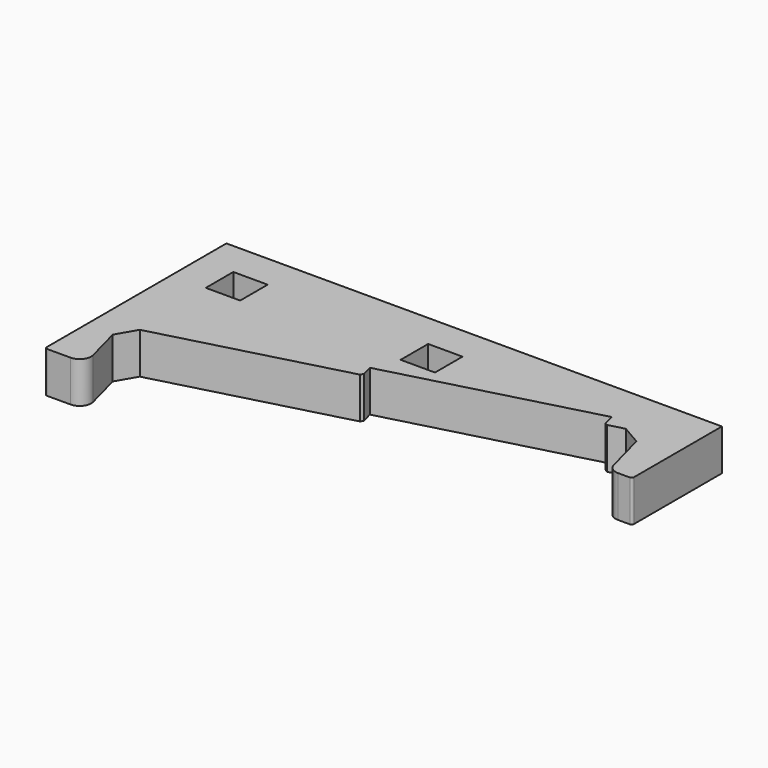
from build123d import *

# Parameters (mm, degrees)
PAD_DEPTH       = 18
FILLET_R        = 5
FILLET001_R     = 5
FILLET002_R     = 1
FILLET003_R     = 1
CHAMFER_SIZE    = 7
CHAMFER001_SIZE = 7
SKETCH001_W     = 15
SKETCH001_H     = 15
POCKET_DEPTH    = 10
SKETCH005_R     = 1
POCKET001_DEPTH = 8
SKETCH006_R     = 1
POCKET002_DEPTH = 8
POCKET003_DEPTH = 18
CHAMFER002_SIZE = 1
CHAMFER003_SIZE = 1


with BuildPart() as part:
    # Sketch → Pad (new body)
    with BuildSketch(Plane(origin=(0, 0, 0), x_dir=(1, 0, 0), z_dir=(0, 0, -1))):
        Polygon((206.173076, -21.002959), (196.173076, -21.002959), (188.480768, -50), (0, 0), (7.692308, 28.997041), (-10, 28.997041), (-10, -69.999032), (206.173076, -69.999032), align=None)
    extrude(amount=PAD_DEPTH)

    # Fillet
    fillet_edges = [part.edges().sort_by_distance(p)[0] for p in [
        (7.692308, -28.997041, -9),
    ]]
    fillet(fillet_edges, radius=FILLET_R)

    # Fillet001
    fillet001_edges = [part.edges().sort_by_distance(p)[0] for p in [
        (196.173076, 21.002959, -9),
    ]]
    fillet(fillet001_edges, radius=FILLET001_R)

    # Fillet002
    fillet002_edges = [part.edges().sort_by_distance(p)[0] for p in [
        (206.173076, 21.002959, -9),
    ]]
    fillet(fillet002_edges, radius=FILLET002_R)

    # Fillet003
    fillet003_edges = [part.edges().sort_by_distance(p)[0] for p in [
        (-10, -28.997041, -9),
    ]]
    fillet(fillet003_edges, radius=FILLET003_R)

    # Chamfer
    chamfer_edges = [part.edges().sort_by_distance(p)[0] for p in [
        (0, 0, -9),
    ]]
    chamfer(chamfer_edges, length=CHAMFER_SIZE)

    # Chamfer001
    chamfer001_edges = [part.edges().sort_by_distance(p)[0] for p in [
        (188.480768, 50, -9),
    ]]
    chamfer(chamfer001_edges, length=CHAMFER001_SIZE)

    # Sketch001 → Pocket (cut)
    with BuildSketch(Plane.XY):
        with Locations((12.5, 47.499032)):
            Rectangle(SKETCH001_W, SKETCH001_H)
        with Locations((97.5, 47.499032)):
            Rectangle(SKETCH001_W, SKETCH001_H)
    extrude(amount=-POCKET_DEPTH, mode=Mode.SUBTRACT)

    # Sketch005 → Pocket001 (cut)
    with BuildSketch(Plane.XY.offset(-10)):
        with Locations((12.5, 47.499032)):
            Circle(SKETCH005_R)
    extrude(amount=-POCKET001_DEPTH, mode=Mode.SUBTRACT)

    # Sketch006 → Pocket002 (cut)
    with BuildSketch(Plane.XY.offset(-10)):
        with Locations((97.5, 47.499032)):
            Circle(SKETCH006_R)
    extrude(amount=-POCKET002_DEPTH, mode=Mode.SUBTRACT)

    # Sketch004 → Pocket003 (cut)
    with BuildSketch(Plane(origin=(0, 0, -18), x_dir=(1, 0, 0), z_dir=(0, 0, -1))):
        Polygon((85.452662, -28.876331), (172.443786, -51.953254), (173.982248, -46.153846), (86.991124, -23.076923), align=None)
    extrude(amount=-POCKET003_DEPTH, mode=Mode.SUBTRACT)

    # Chamfer002
    chamfer002_edges = [part.edges().sort_by_distance(p)[0] for p in [
        (86.991124, 23.076923, -9),
    ]]
    chamfer(chamfer002_edges, length=CHAMFER002_SIZE)

    # Chamfer003
    chamfer003_edges = [part.edges().sort_by_distance(p)[0] for p in [
        (173.982248, 46.153846, -9),
    ]]
    chamfer(chamfer003_edges, length=CHAMFER003_SIZE)


solid = part.part
